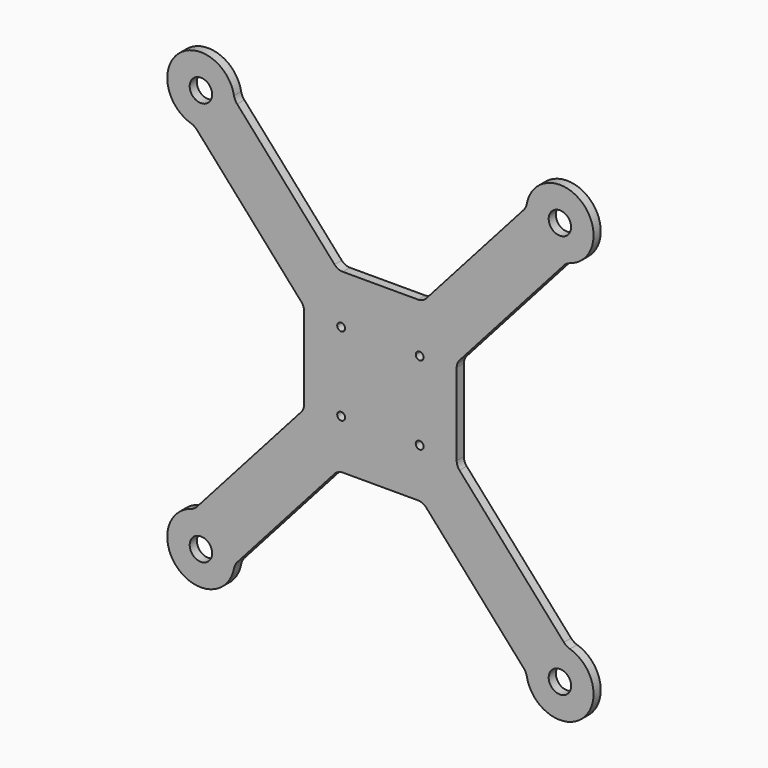
from build123d import *

# Parameters (mm, degrees)
F0_R     = 5
F1_DEPTH = 4
F2_DEPTH = 25
F3_R     = 6


with BuildPart() as f1:
    # F0 (on Front) → F1 (new body)
    with BuildSketch(Plane.XZ):
        with BuildLine():
            Line((-20.45353, 41.072611), (-65.051813, 91.24568))
            ThreePointArc((-65.051813, 91.24568), (-89.965457, 101.21114), (-82.989636, 75.30095))
            Line((-82.989636, 75.30095), (-35.262953, 21.608432))
            ThreePointArc((-35.262953, 21.608432), (-34.326391, 20.063516), (-34, 18.286613))
            Line((-34, 18.286613), (-34, -18.286613))
            ThreePointArc((-34, -18.286613), (-34.326391, -20.063516), (-35.262953, -21.608432))
            Line((-35.262953, -21.608432), (-82.989636, -75.30095))
            ThreePointArc((-82.989636, -75.30095), (-89.965457, -101.21114), (-65.051813, -91.24568))
            Line((-65.051813, -91.24568), (-20.45353, -41.072611))
            ThreePointArc((-20.45353, -41.072611), (-18.764763, -39.83323), (-16.716483, -39.39443))
            Line((-16.716483, -39.39443), (16.716483, -39.39443))
            ThreePointArc((16.716483, -39.39443), (18.764763, -39.83323), (20.45353, -41.072611))
            Line((20.45353, -41.072611), (65.051813, -91.24568))
            ThreePointArc((65.051813, -91.24568), (89.965457, -101.21114), (82.989636, -75.30095))
            Line((82.989636, -75.30095), (35.262953, -21.608432))
            ThreePointArc((35.262953, -21.608432), (34.326391, -20.063516), (34, -18.286613))
            Line((34, -18.286613), (34, 18.286613))
            ThreePointArc((34, 18.286613), (34.326391, 20.063516), (35.262953, 21.608432))
            Line((35.262953, 21.608432), (82.989636, 75.30095))
            ThreePointArc((82.989636, 75.30095), (89.965457, 101.21114), (65.051813, 91.24568))
            Line((65.051813, 91.24568), (20.45353, 41.072611))
            ThreePointArc((20.45353, 41.072611), (18.764763, 39.83323), (16.716483, 39.39443))
            Line((16.716483, 39.39443), (-16.716483, 39.39443))
            ThreePointArc((-16.716483, 39.39443), (-18.764763, 39.83323), (-20.45353, 41.072611))
        make_face()
        with Locations((-80, -90)):
            Circle(F0_R, mode=Mode.SUBTRACT)
        with Locations((80, -90)):
            Circle(F0_R, mode=Mode.SUBTRACT)
        with Locations((-80, 90)):
            Circle(F0_R, mode=Mode.SUBTRACT)
        with Locations((80, 90)):
            Circle(F0_R, mode=Mode.SUBTRACT)
    extrude(amount=F1_DEPTH)

    # F4 (on face) → F2 (cut)
    with BuildSketch(Plane.XZ.offset(4)):
        with BuildLine():
            ThreePointArc((19.25, 17.5), (17.5, 19.25), (15.75, 17.5))
            Line((15.75, 17.5), (17.5, 17.5))
            Line((17.5, 17.5), (17.5, 15.75))
            ThreePointArc((17.5, 15.75), (18.737437, 16.262563), (19.25, 17.5))
        make_face()
        with BuildLine():
            Line((-17.5, 17.5), (-15.75, 17.5))
            ThreePointArc((-15.75, 17.5), (-18.737437, 18.737437), (-17.5, 15.75))
            Line((-17.5, 15.75), (-17.5, 17.5))
        make_face()
        with BuildLine():
            ThreePointArc((-17.5, 15.75), (-16.262563, 16.262563), (-15.75, 17.5))
            Line((-15.75, 17.5), (-17.5, 17.5))
            Line((-17.5, 17.5), (-17.5, 15.75))
        make_face()
        with BuildLine():
            Line((17.5, 17.5), (15.75, 17.5))
            ThreePointArc((15.75, 17.5), (16.262563, 16.262563), (17.5, 15.75))
            Line((17.5, 15.75), (17.5, 17.5))
        make_face()
        with BuildLine():
            ThreePointArc((-15.75, -17.5), (-16.262563, -16.262563), (-17.5, -15.75))
            Line((-17.5, -15.75), (-17.5, -17.5))
            Line((-17.5, -17.5), (-15.75, -17.5))
        make_face()
        with BuildLine():
            Line((-17.5, -17.5), (-17.5, -15.75))
            ThreePointArc((-17.5, -15.75), (-18.737437, -18.737437), (-15.75, -17.5))
            Line((-15.75, -17.5), (-17.5, -17.5))
        make_face()
        with BuildLine():
            Line((17.5, -17.5), (17.5, -15.75))
            ThreePointArc((17.5, -15.75), (16.262563, -16.262563), (15.75, -17.5))
            Line((15.75, -17.5), (17.5, -17.5))
        make_face()
        with BuildLine():
            ThreePointArc((19.25, -17.5), (18.737437, -16.262563), (17.5, -15.75))
            Line((17.5, -15.75), (17.5, -17.5))
            Line((17.5, -17.5), (15.75, -17.5))
            ThreePointArc((15.75, -17.5), (17.5, -19.25), (19.25, -17.5))
        make_face()
    extrude(amount=-F2_DEPTH, mode=Mode.SUBTRACT)

    # F3
    f3_edges = [f1.edges().sort_by_distance(p)[0] for p in [
        (82.989636, -2, -75.30095),
        (65.051813, -2, -91.24568),
        (-82.989636, -2, -75.30095),
        (-65.051813, -2, -91.24568),
        (65.051813, -2, 91.24568),
        (82.989636, -2, 75.30095),
        (-82.989636, -2, 75.30095),
        (-65.051813, -2, 91.24568),
    ]]
    fillet(f3_edges, radius=F3_R)


solid = f1.part
